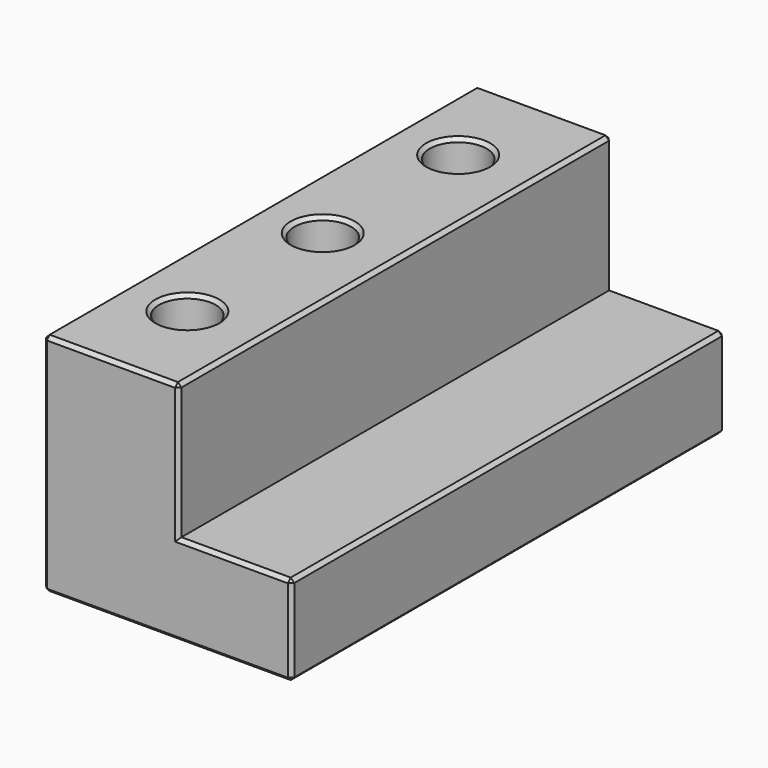
from build123d import *

# Parameters (mm, degrees)
F1_DEPTH = 152.4
F2_R     = 7.99973
F3_DEPTH = 63.501
F4_SIZE  = 1.016


with BuildPart() as f1:
    # F0 (on Front) → F1 (new body)
    with BuildSketch(Plane.XZ):
        Polygon((0, 63.5), (0, 0), (69.85, 0), (69.85, 25.4), (38.1, 25.4), (38.1, 63.5), align=None)
    extrude(amount=F1_DEPTH)

    # F2 (on face) → F3 (cut, through all)
    with BuildSketch(Plane.XY.offset(63.5)):
        with Locations((17.6930073649, -28.575)):
            Circle(F2_R)
        with Locations((17.6930073649, -76.2)):
            Circle(F2_R)
        with Locations((17.6930073649, -123.825)):
            Circle(F2_R)
    extrude(amount=-F3_DEPTH, mode=Mode.SUBTRACT)

    # F4
    f4_edges = [f1.edges().sort_by_distance(p)[0] for p in [
        (0, -152.4, 31.75),
        (34.925, -152.4, 0),
        (69.85, -152.4, 12.7),
        (53.975, -152.4, 25.4),
        (38.1, -152.4, 44.45),
        (19.05, -152.4, 63.5),
        (0, 0, 31.75),
        (34.925, 0, 0),
        (69.85, 0, 12.7),
        (53.975, 0, 25.4),
        (38.1, 0, 44.45),
        (19.05, 0, 63.5),
        (38.1, -76.2, 63.5),
        (0, -76.2, 63.5),
        (9.693277, -123.825, 63.5),
        (9.693277, -76.2, 63.5),
        (9.693277, -28.575, 63.5),
        (69.85, -76.2, 0),
        (69.85, -76.2, 25.4),
        (0, -76.2, 0),
        (9.693277, -123.825, 0),
        (9.693277, -76.2, 0),
        (9.693277, -28.575, 0),
    ]]
    chamfer(f4_edges, length=F4_SIZE)


solid = f1.part
